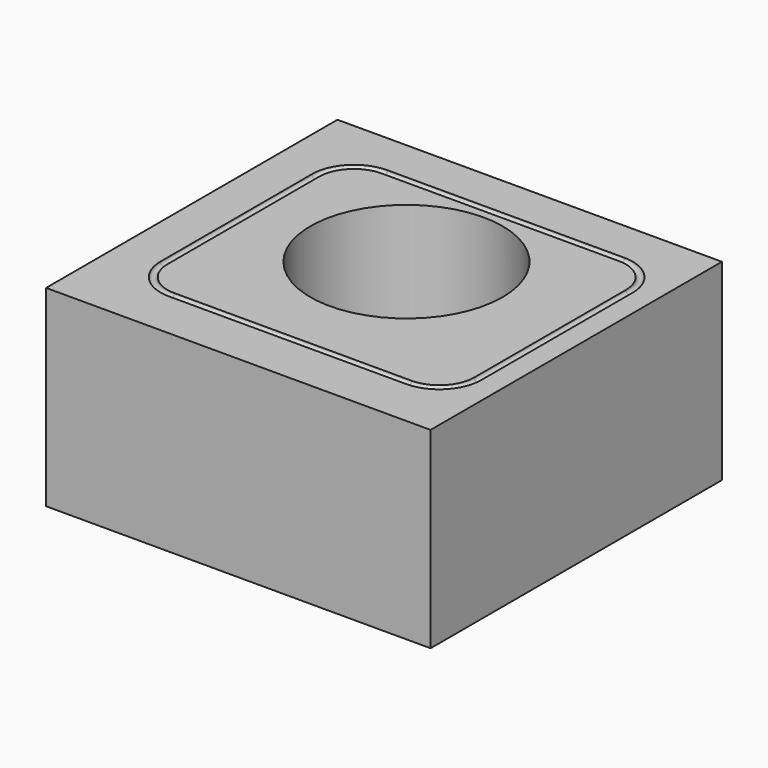
from build123d import *

# Parameters (mm, degrees)
F0_W     = 50
F0_H     = 47.3597366856
F1_DEPTH = 25
F2_R     = 12.5
F3_DEPTH = 25
F5_R     = 0.4552551452


with BuildPart() as f1:
    # F0 (on Top) → F1 (new body)
    with BuildSketch(Plane.XY):
        with Locations((0.0229850411, -3.6821365356)):
            Rectangle(F0_W, F0_H)
    extrude(amount=F1_DEPTH)

    # F2 (on face) → F3 (cut, through all)
    with BuildSketch(Plane.XY.offset(25)):
        Circle(F2_R)
    extrude(amount=-F3_DEPTH, mode=Mode.SUBTRACT)

    # F6: sweep along a path in F4
    with BuildLine(Plane.XY.offset(25)) as f6_path:
        Line((-14.0730467439, -20.5863900483), (16.7477343976, -20.5863900483))
        ThreePointArc((16.7477343976, -20.5863900483), (20.2832683036, -19.1219239542), (21.7477343976, -15.5863900483))
        Line((21.7477343976, -15.5863900483), (21.7477343976, 9.0496650711))
        ThreePointArc((21.7477343976, 9.0496650711), (20.2832683036, 12.585198977), (16.7477343976, 14.0496650711))
        Line((16.7477343976, 14.0496650711), (-14.0730467439, 14.0496650711))
        ThreePointArc((-14.0730467439, 14.0496650711), (-17.6085806498, 12.585198977), (-19.0730467439, 9.0496650711))
        Line((-19.0730467439, 9.0496650711), (-19.0730467439, -15.5863900483))
        ThreePointArc((-19.0730467439, -15.5863900483), (-17.6085806498, -19.1219239542), (-14.0730467439, -20.5863900483))
    # F5 (on Right) → F6 (sweep, cut)
    with BuildSketch(Plane.YZ):
        with Locations((-20.5761548132, 24.9956939369)):
            Circle(F5_R)
    sweep(path=f6_path.line, mode=Mode.SUBTRACT)


solid = f1.part
